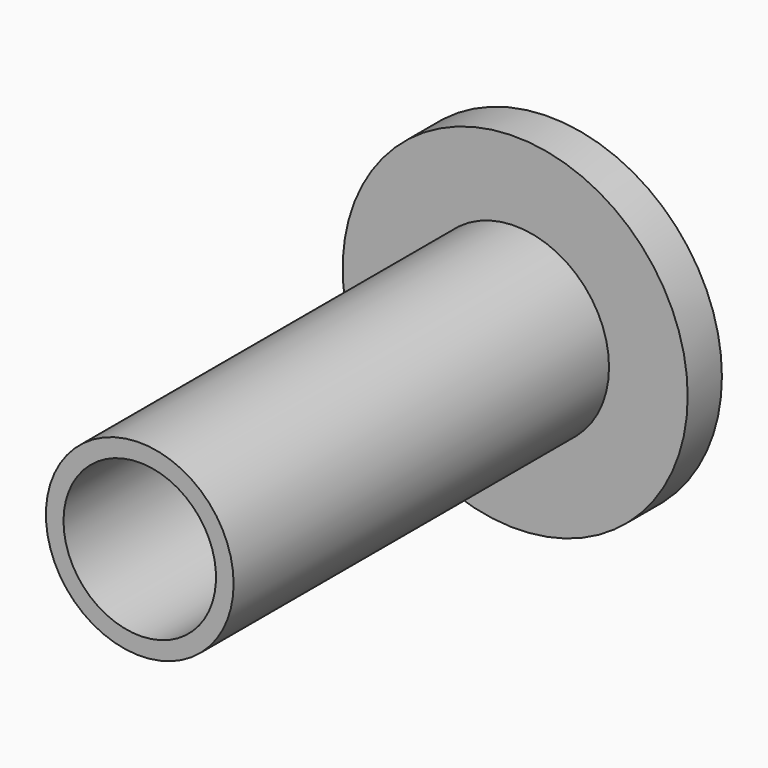
from build123d import *

# Parameters (mm, degrees)
F0_R     = 12.7
F1_DEPTH = 3.1496
F2_R     = 6.9088
F3_DEPTH = 34.544
F4_R     = 5.6134
F5_DEPTH = 37.6946


with BuildPart() as f1:
    # F0 (on Front) → F1 (new body)
    with BuildSketch(Plane.XZ):
        Circle(F0_R)
    extrude(amount=F1_DEPTH)

    # F2 (on face) → F3 (join)
    with BuildSketch(Plane.XZ.offset(3.1496)):
        Circle(F2_R)
    extrude(amount=F3_DEPTH)

    # F4 (on face) → F5 (cut, through all)
    with BuildSketch(Plane(origin=(0, 0, 0), x_dir=(-1, 0, 0), z_dir=(0, 1, 0))):
        Circle(F4_R)
    extrude(amount=-F5_DEPTH, mode=Mode.SUBTRACT)


solid = f1.part
